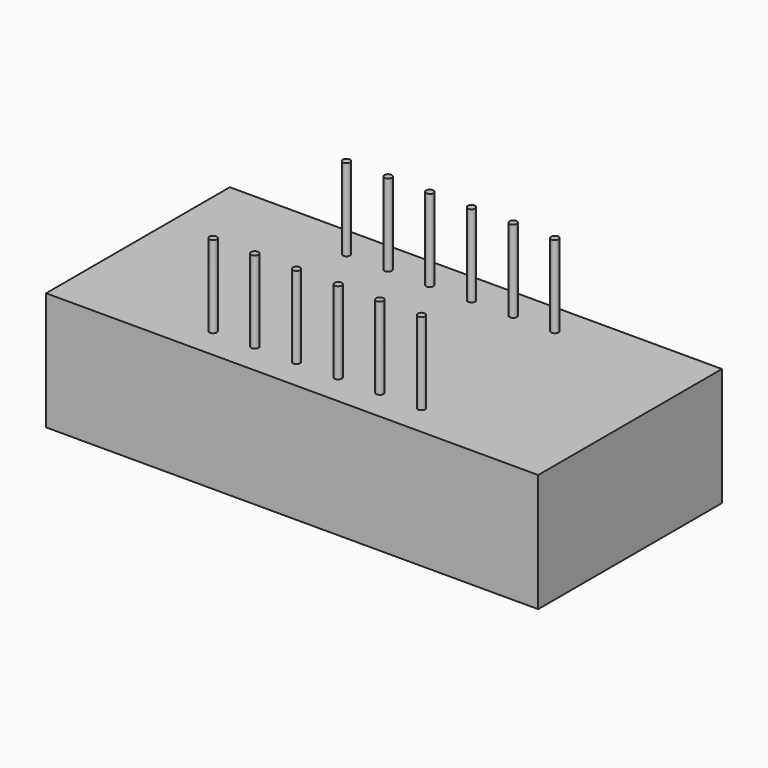
from build123d import *

# Parameters (mm, degrees)
SKETCH001_W  = 30
SKETCH001_H  = 14
PAD_DEPTH    = 7.2
SKETCH002_R  = 0.225
PAD001_DEPTH = 5


with BuildPart() as part:
    # Sketch001 → Pad (new body)
    with BuildSketch(Plane.XY):
        Rectangle(SKETCH001_W, SKETCH001_H)
    extrude(amount=PAD_DEPTH)

    # Sketch002 (on Face6 of Pad) → Pad001 (join)
    with BuildSketch(Plane.XY.offset(7.2)):
        with Locations((-3.81, -5.08)):
            Circle(SKETCH002_R)
        with Locations((-6.35, -5.08)):
            Circle(SKETCH002_R)
        with Locations((-1.27, -5.08)):
            Circle(SKETCH002_R)
        with Locations((1.27, -5.08)):
            Circle(SKETCH002_R)
        with Locations((3.81, -5.08)):
            Circle(SKETCH002_R)
        with Locations((6.35, -5.08)):
            Circle(SKETCH002_R)
        with Locations((-3.81, 5.08)):
            Circle(SKETCH002_R)
        with Locations((-6.35, 5.08)):
            Circle(SKETCH002_R)
        with Locations((-1.27, 5.08)):
            Circle(SKETCH002_R)
        with Locations((1.27, 5.08)):
            Circle(SKETCH002_R)
        with Locations((3.81, 5.08)):
            Circle(SKETCH002_R)
        with Locations((6.35, 5.08)):
            Circle(SKETCH002_R)
    extrude(amount=PAD001_DEPTH)


solid = part.part
